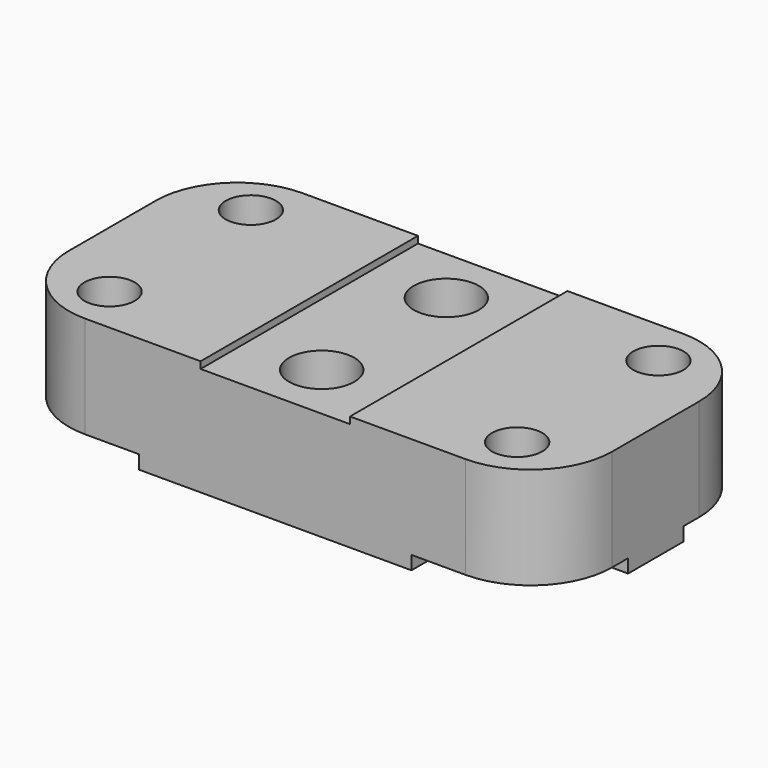
from build123d import *

# Parameters (mm, degrees)
SKETCH_W        = 40
SKETCH_H        = 20
SKETCH_R        = 1.85
PAD_DEPTH       = 8.5
POCKET001_DEPTH = 1
SKETCH003_R     = 2.4
POCKET_DEPTH    = 8.501
SKETCH004_W     = 11
SKETCH004_H     = 1
POCKET002_DEPTH = 20.001
FILLET_R        = 6


with BuildPart() as part:
    # Sketch → Pad (new body)
    with BuildSketch(Plane.XY):
        Rectangle(SKETCH_W, SKETCH_H)
        with Locations((-15, 6.5)):
            Circle(SKETCH_R, mode=Mode.SUBTRACT)
        with Locations((15, 6.5)):
            Circle(SKETCH_R, mode=Mode.SUBTRACT)
        with Locations((15, -6.5)):
            Circle(SKETCH_R, mode=Mode.SUBTRACT)
        with Locations((-15, -6.5)):
            Circle(SKETCH_R, mode=Mode.SUBTRACT)
    extrude(amount=PAD_DEPTH)

    # Sketch002 → Pocket001 (cut)
    with BuildSketch(Plane(origin=(0, 0, 0), x_dir=(1, 0, 0), z_dir=(0, 0, -1))):
        Polygon((20, 13.717063), (10.020782, 11.721405), (10.020782, 2.538416), (20, 2.538416), align=None)
        Polygon((10.020782, -2.538416), (20, -2.538416), (20, -12.706139), (10.020782, -11.721405), align=None)
    pocket001 = extrude(amount=-POCKET001_DEPTH, mode=Mode.SUBTRACT)

    # Mirrored: Pocket001 across Sketch002 V_Axis
    add(pocket001.mirror(Plane(origin=(0, 0, 0), x_dir=(0, 0, -1), z_dir=(1, 0, 0))), mode=Mode.SUBTRACT)

    # Sketch003 (on DatumPlane) → Pocket (cut, through all)
    with BuildSketch(Plane(origin=(0, 0, 0), x_dir=(1, 0, 0), z_dir=(0, 0, -1))):
        with Locations((0, 5.73236)):
            Circle(SKETCH003_R)
        with Locations((0, -5.73236)):
            Circle(SKETCH003_R)
    extrude(amount=-POCKET_DEPTH, mode=Mode.SUBTRACT)

    # Sketch004 (on DatumPlane) → Pocket002 (cut, through all)
    with BuildSketch(Plane(origin=(0, 10, 0), x_dir=(-1, 0, 0), z_dir=(0, 1, 0))):
        with Locations((0, 8.5)):
            Rectangle(SKETCH004_W, SKETCH004_H)
    extrude(amount=-POCKET002_DEPTH, mode=Mode.SUBTRACT)

    # Fillet
    fillet_edges = [part.edges().sort_by_distance(p)[0] for p in [
        (-10.020782, 2.538416, 0.5),
        (-10.020782, -2.538416, 0.5),
        (10.020782, -2.538416, 0.5),
        (10.020782, 2.538416, 0.5),
        (20, 10, 4.75),
        (20, -10, 4.75),
        (-20, -10, 4.75),
        (-20, 10, 4.75),
    ]]
    fillet(fillet_edges, radius=FILLET_R)


solid = part.part
